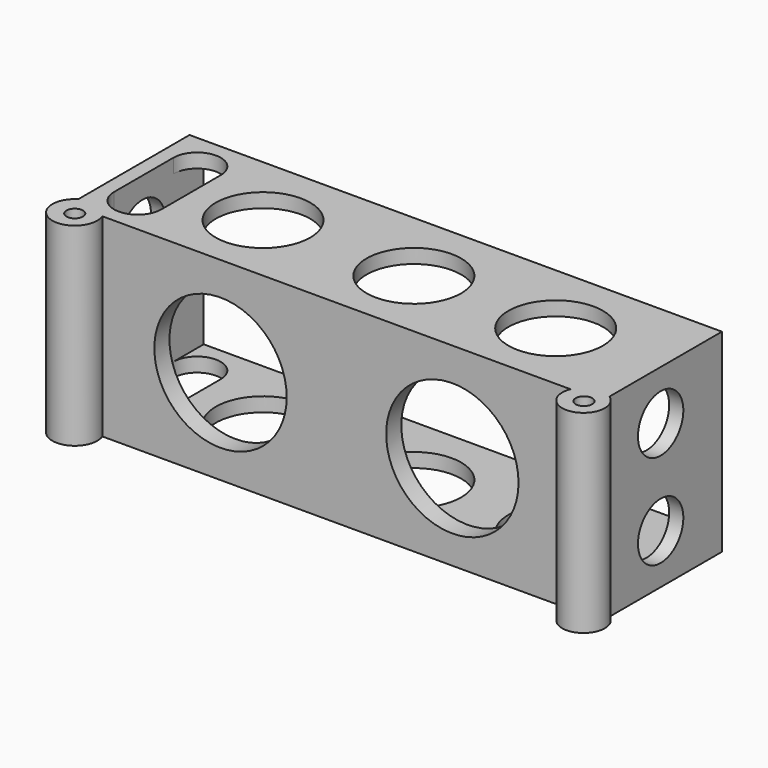
from build123d import *

# Parameters (mm, degrees)
PAD_DEPTH       = 41
SKETCH001_W     = 106.614
SKETCH001_H     = 35
POCKET_DEPTH    = 27.7
SKETCH002_R     = 10
SKETCH002_R_2   = 1.75
POCKET001_DEPTH = 41.001
SKETCH003_R     = 14
POCKET002_DEPTH = 31.701
SKETCH004_R     = 6
POCKET003_DEPTH = 114.865


with BuildPart() as part:
    # Sketch → Pad (new body)
    with BuildSketch(Plane.XY):
        with BuildLine():
            Line((-60.41588, 16.2), (52.19812, 16.2))
            Line((52.19812, 16.2), (52.19812, -13.517735))
            ThreePointArc((45.538339, -15.5), (50.967872, -21.563001), (52.19812, -13.517735))
            Line((-53.5, -15.5), (45.538339, -15.5))
            ThreePointArc((-60.41588, -13.211126), (-59.408323, -21.759447), (-53.5, -15.5))
            Line((-60.41588, -13.211126), (-60.41588, 16.2))
        make_face()
    extrude(amount=PAD_DEPTH)

    # Sketch001 → Pocket (cut)
    with BuildSketch(Plane(origin=(0, 16.2, 0), x_dir=(-1, 0, 0), z_dir=(0, 1, 0))):
        with Locations((4.10888, 20.5)):
            Rectangle(SKETCH001_W, SKETCH001_H)
    extrude(amount=-POCKET_DEPTH, mode=Mode.SUBTRACT)

    # Sketch002 → Pocket001 (cut, through all)
    with BuildSketch(Plane.XY.offset(41)):
        with Locations((-31.91588, 0)):
            Circle(SKETCH002_R)
        Circle(SKETCH002_R)
        with Locations((30, 0)):
            Circle(SKETCH002_R)
        with Locations((49.938726, -17.458258)):
            Circle(SKETCH002_R_2)
        with Locations((-57.661274, -17.584375)):
            Circle(SKETCH002_R_2)
        with BuildLine():
            ThreePointArc((-57.41588, -7.499976), (-52.415893, -12.499999), (-47.41588, -7.5))
            Line((-47.41588, -7.5), (-47.41588, 8.2))
            ThreePointArc((-47.41588, 8.2), (-52.41587, 13.2), (-57.41588, 8.200022))
            Line((-57.41588, -7.499976), (-57.41588, 8.200022))
        make_face()
    extrude(amount=-POCKET001_DEPTH, mode=Mode.SUBTRACT)

    # Sketch003 → Pocket002 (cut, through all)
    with BuildSketch(Plane.XZ.offset(15.5)):
        with Locations((-28.5, 20)):
            Circle(SKETCH003_R)
        with Locations((20.538339, 20)):
            Circle(SKETCH003_R)
    extrude(amount=-POCKET002_DEPTH, mode=Mode.SUBTRACT)

    # Sketch004 → Pocket003 (cut, through all)
    with BuildSketch(Plane.YZ.offset(52.19812)):
        with Locations((0, 30.5)):
            Circle(SKETCH004_R)
        with Locations((0, 10.5)):
            Circle(SKETCH004_R)
    extrude(amount=-POCKET003_DEPTH, mode=Mode.SUBTRACT)


solid = part.part
